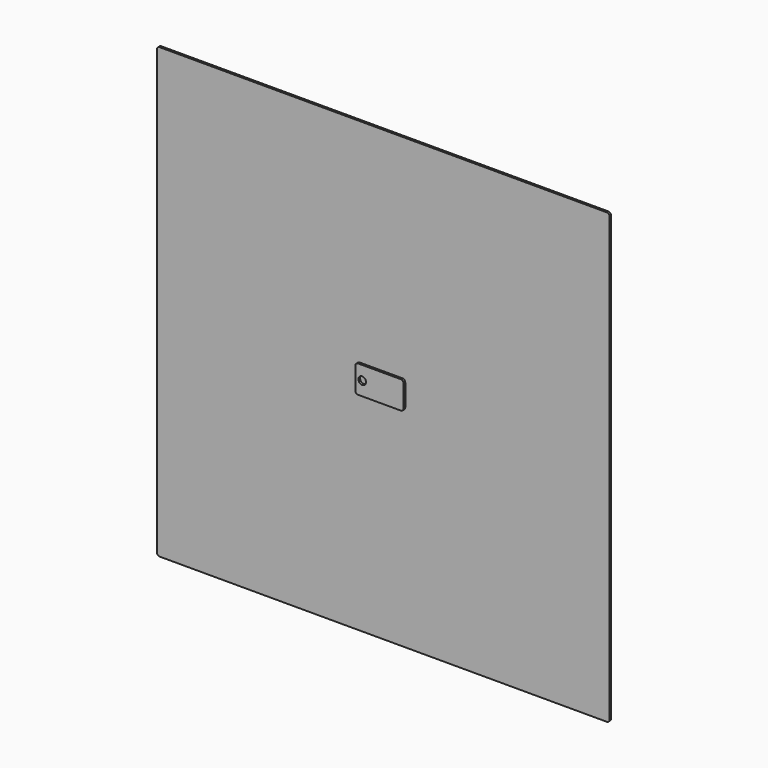
from build123d import *

# Parameters (mm, degrees)
F0_W     = 70
F0_H     = 40
F1_DEPTH = 6
F2_R     = 4
F4_D     = 11
F5_W     = 656
F5_H     = 650
F6_DEPTH = 3
F7_R     = 4


with BuildPart() as f1:
    # F0 (on Front) → F1 (new body)
    with BuildSketch(Plane.XZ):
        Rectangle(F0_W, F0_H)
    extrude(amount=F1_DEPTH)

    # F2
    f2_edges = [f1.edges().sort_by_distance(p)[0] for p in [
        (35, -3, 20),
        (35, -3, -20),
        (-35, -3, 20),
        (-35, -3, -20),
    ]]
    fillet(f2_edges, radius=F2_R)

    # F4 (through all)
    with Locations(Plane.XZ.offset(6)):
        with Locations((-25, 0)):
            Hole(F4_D / 2)


with BuildPart() as f6:
    # F5 (on Front) → F6 (new body)
    with BuildSketch(Plane.XZ):
        with Locations((3, 3)):
            Rectangle(F5_W, F5_H)
    extrude(amount=F6_DEPTH)

    # F7
    f7_edges = [f6.edges().sort_by_distance(p)[0] for p in [
        (331, -1.5, 328),
        (-325, -1.5, 328),
        (331, -1.5, -322),
        (-325, -1.5, -322),
    ]]
    fillet(f7_edges, radius=F7_R)


solid = Compound([f1.part, f6.part])
